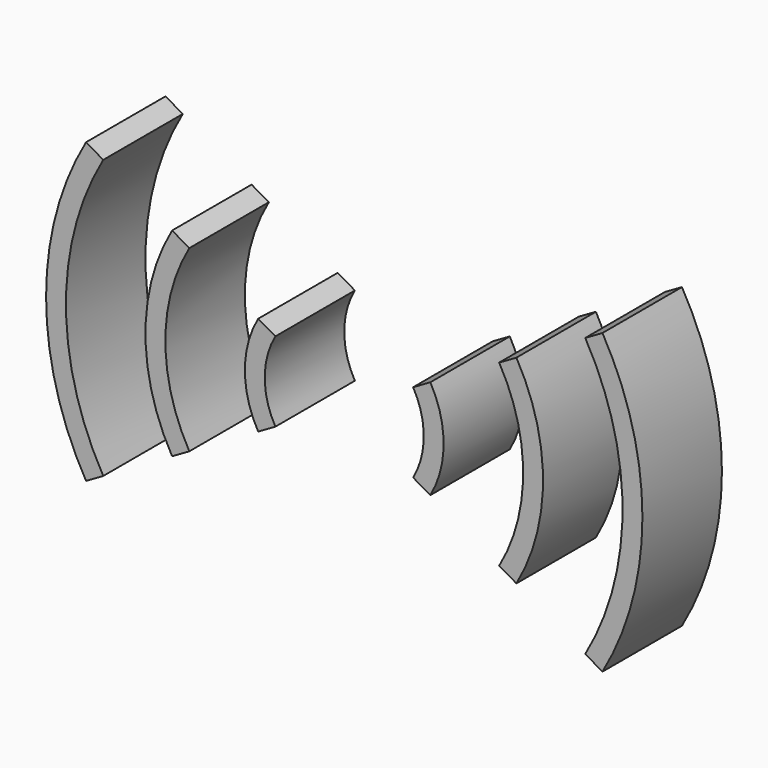
from build123d import *

# Parameters (mm, degrees)
F1_DEPTH      = 5
F1_DEPTH_BACK = 5


with BuildPart() as f1:
    # F0 (on Front) → F1 (new body, two sides)
    with BuildSketch(Plane.XZ) as f1_sk:
        with BuildLine():
            Line((25.980762, 15), (24.248711, 14))
            ThreePointArc((24.248711, 14), (28, 0), (24.248711, -14))
            Line((24.248711, -14), (25.980762, -15))
            ThreePointArc((25.980762, -15), (30, 0), (25.980762, 15))
        make_face()
        with BuildLine():
            Line((17.320508, 10), (15.588457, 9))
            ThreePointArc((15.588457, 9), (18, 0), (15.588457, -9))
            Line((15.588457, -9), (17.320508, -10))
            ThreePointArc((17.320508, -10), (20, 0), (17.320508, 10))
        make_face()
        with BuildLine():
            Line((8.660254, 5), (6.928203, 4))
            ThreePointArc((6.928203, 4), (8, 0), (6.928203, -4))
            Line((6.928203, -4), (8.660254, -5))
            ThreePointArc((8.660254, -5), (10, 0), (8.660254, 5))
        make_face()
        with BuildLine():
            ThreePointArc((-6.928203, -4), (-8, 0), (-6.928203, 4))
            Line((-6.928203, 4), (-8.660254, 5))
            ThreePointArc((-8.660254, 5), (-10, 0), (-8.660254, -5))
            Line((-8.660254, -5), (-6.928203, -4))
        make_face()
        with BuildLine():
            ThreePointArc((-15.588457, -9), (-18, 0), (-15.588457, 9))
            Line((-15.588457, 9), (-17.320508, 10))
            ThreePointArc((-17.320508, 10), (-20, 0), (-17.320508, -10))
            Line((-17.320508, -10), (-15.588457, -9))
        make_face()
        with BuildLine():
            ThreePointArc((-24.248711, -14), (-28, 0), (-24.248711, 14))
            Line((-24.248711, 14), (-25.980762, 15))
            ThreePointArc((-25.980762, 15), (-30, 0), (-25.980762, -15))
            Line((-25.980762, -15), (-24.248711, -14))
        make_face()
    extrude(amount=F1_DEPTH)
    extrude(f1_sk.sketch, amount=-F1_DEPTH_BACK)


solid = f1.part
